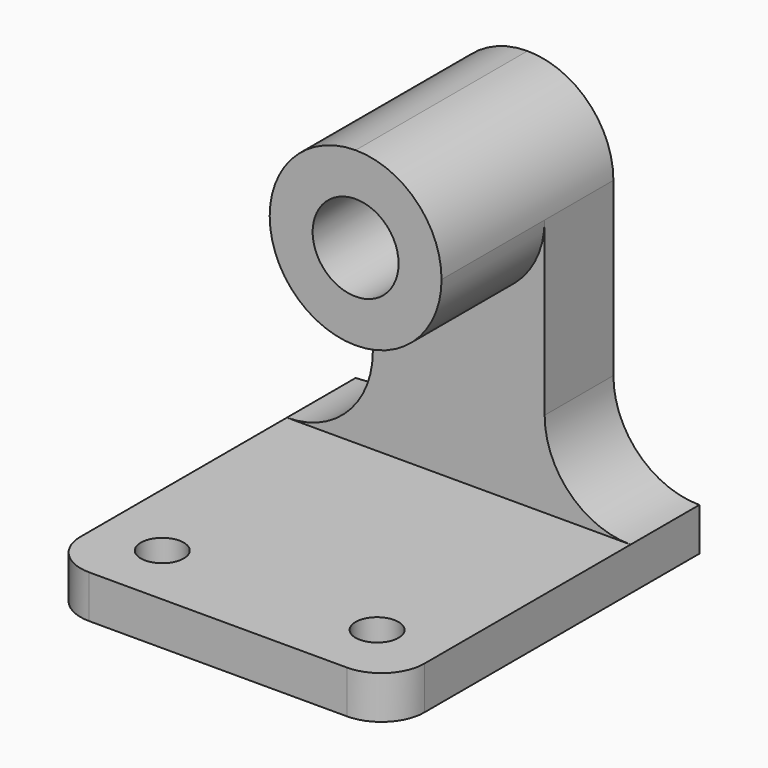
from build123d import *

# Parameters (mm, degrees)
F0_W      = 27.6003498584
F0_H      = 50.8
F0_W_2    = 8.7740728214
F0_W_3    = 14.4255773202
F1_DEPTH  = 31.75
F2_W      = 12.7
F2_H      = 12.7
F3_DEPTH  = 31.751
F4_R      = 6.35
F5_DEPTH  = 31.751
F4_R_2    = 12.7
F6_DEPTH  = 12.7
F8_DEPTH  = 31.751
F10_DEPTH = 19.05
F11_DEPTH = 25.4
F13_DEPTH = 6.351
F14_R     = 3.175
F15_DEPTH = 6.351


with BuildPart() as f1:
    # F0 (on Front) → F1 (new body)
    with BuildSketch(Plane.XZ):
        with Locations((-44.346629642, 31.75)):
            Rectangle(F0_W, F0_H)
        with Locations((-62.5338409818, 31.75)):
            Rectangle(F0_W_2, F0_H)
        with Locations((-23.3336660526, 31.75)):
            Rectangle(F0_W_3, F0_H)
        Polygon((-58.1468045712, 6.35), (-66.9208773925, 6.35), (-66.9208773925, 0), (-16.1208773925, 0), (-16.1208773925, 6.35), (-30.5464547127, 6.35), align=None)
    extrude(amount=F1_DEPTH)

    # F2 (on face) → F3 (cut, through all)
    with BuildSketch(Plane.XZ.offset(31.75)):
        with Locations((-60.5708773925, 50.8)):
            Rectangle(F2_W, F2_H)
        with BuildLine():
            Line((-54.2208773925, 57.15), (-54.2208773925, 44.45))
            ThreePointArc((-54.2208773925, 44.45), (-50.5011335136, 53.4302561211), (-41.5208773925, 57.15))
            Line((-41.5208773925, 57.15), (-54.2208773925, 57.15))
        make_face()
        with BuildLine():
            ThreePointArc((-41.5208773925, 57.15), (-32.5406212715, 53.4302561211), (-28.8208773925, 44.45))
            Line((-28.8208773925, 44.45), (-28.8208773925, 57.15))
            Line((-28.8208773925, 57.15), (-41.5208773925, 57.15))
        make_face()
        with Locations((-22.4708773925, 50.8)):
            Rectangle(F2_W, F2_H)
    extrude(amount=-F3_DEPTH, mode=Mode.SUBTRACT)

    # F4 (on face) → F5 (cut, through all)
    with BuildSketch(Plane.XZ.offset(31.75)):
        with Locations((-41.5208773925, 44.45)):
            Circle(F4_R)
    extrude(amount=-F5_DEPTH, mode=Mode.SUBTRACT)

    # F4 (on face) → F6 (cut)
    with BuildSketch(Plane.XZ.offset(31.75)):
        with Locations((-41.5208773925, 44.45)):
            Circle(F4_R_2)
        with Locations((-41.5208773925, 44.45)):
            Circle(F4_R, mode=Mode.SUBTRACT)
    extrude(amount=F6_DEPTH, mode=Mode.SUBTRACT)

    # F7 (on face) → F8 (cut, through all)
    with BuildSketch(Plane.XZ.offset(31.75)):
        with BuildLine():
            Line((-66.9208773925, 44.45), (-66.9208773925, 6.35))
            ThreePointArc((-66.9208773925, 6.35), (-57.9406212715, 10.0697438789), (-54.2208773925, 19.05))
            Line((-54.2208773925, 19.05), (-54.2208773925, 44.45))
            Line((-54.2208773925, 44.45), (-66.9208773925, 44.45))
        make_face()
        with BuildLine():
            ThreePointArc((-28.8208773925, 19.05), (-25.1011335136, 10.0697438789), (-16.1208773925, 6.35))
            Line((-16.1208773925, 6.35), (-16.1208773925, 44.45))
            Line((-16.1208773925, 44.45), (-28.8208773925, 44.45))
            Line((-28.8208773925, 44.45), (-28.8208773925, 19.05))
        make_face()
    extrude(amount=-F8_DEPTH, mode=Mode.SUBTRACT)

    # F9 (on face) → F10 (cut)
    with BuildSketch(Plane.XZ.offset(31.75)):
        with BuildLine():
            ThreePointArc((-54.2208773925, 19.05), (-57.9406212715, 10.0697438789), (-66.9208773925, 6.35))
            Line((-66.9208773925, 6.35), (-16.1208773925, 6.35))
            ThreePointArc((-16.1208773925, 6.35), (-25.1011335136, 10.0697438789), (-28.8208773925, 19.05))
            Line((-28.8208773925, 19.05), (-28.8208773925, 44.45))
            ThreePointArc((-28.8208773925, 44.45), (-41.5208773925, 31.75), (-54.2208773925, 44.45))
            Line((-54.2208773925, 44.45), (-54.2208773925, 19.05))
        make_face()
    extrude(amount=-F10_DEPTH, mode=Mode.SUBTRACT)

    # F11 (add): a face of the model
    f11_faces = [f1.faces().sort_by_distance(p)[0] for p in [
        (-41.5208773925, -31.75, 3.175),
    ]]
    extrude(f11_faces, amount=F11_DEPTH)

    # F12 (on face) → F13 (cut, through all)
    with BuildSketch(Plane.XY.offset(6.35)):
        with BuildLine():
            Line((-66.9208773925, -50.8), (-66.9208773925, -57.15))
            Line((-66.9208773925, -57.15), (-60.5708773925, -57.15))
            ThreePointArc((-60.5708773925, -57.15), (-65.0610054531, -55.2901280605), (-66.9208773925, -50.8))
        make_face()
        with BuildLine():
            ThreePointArc((-16.1208773925, -50.8), (-17.980749332, -55.2901280605), (-22.4708773925, -57.15))
            Line((-22.4708773925, -57.15), (-16.1208773925, -57.15))
            Line((-16.1208773925, -57.15), (-16.1208773925, -50.8))
        make_face()
    extrude(amount=-F13_DEPTH, mode=Mode.SUBTRACT)

    # F14 (on face) → F15 (cut, through all)
    with BuildSketch(Plane.XY.offset(6.35)):
        with Locations((-57.3958773925, -47.625)):
            Circle(F14_R)
        with Locations((-25.6458773925, -47.625)):
            Circle(F14_R)
    extrude(amount=-F15_DEPTH, mode=Mode.SUBTRACT)


solid = f1.part
